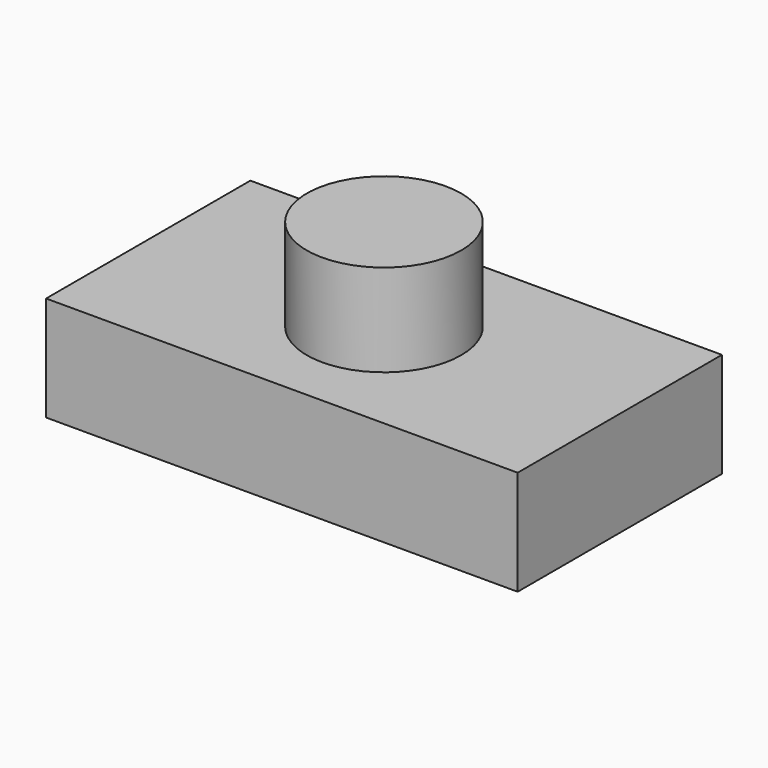
from build123d import *

# Parameters (mm, degrees)
F0_W     = 114.299998
F0_H     = 61.879654
F0_R     = 18.721552
F2_DEPTH = 25.4
F1_R     = 18.721552
F3_DEPTH = 47.752


with BuildPart() as f2:
    # F0 (on Top) → F2 (new body)
    with BuildSketch(Plane.XY):
        Rectangle(F0_W, F0_H)
        Circle(F0_R, mode=Mode.SUBTRACT)
    extrude(amount=F2_DEPTH)

    # F1 (on face) → F3 (join)
    with BuildSketch(Plane.XY):
        Circle(F1_R)
    extrude(amount=F3_DEPTH)


solid = f2.part
